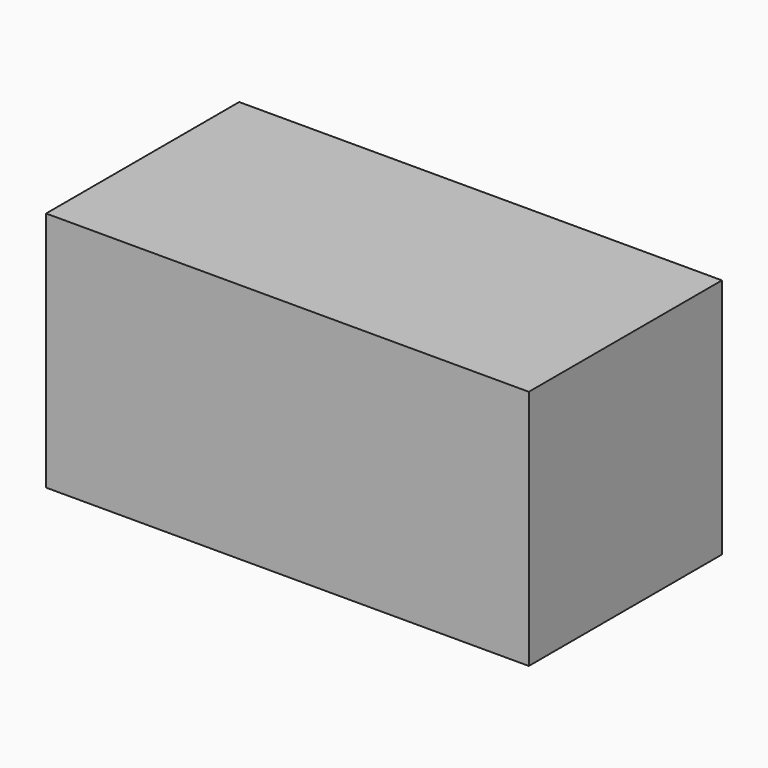
from build123d import *

# Parameters (mm, degrees)
SKETCH_W      = 100
SKETCH_H      = 50
EXTRUDE_DEPTH = 50


with BuildPart() as part:
    # Sketch → Extrude (new body)
    with BuildSketch(Plane.XY):
        Rectangle(SKETCH_W, SKETCH_H)
    extrude(amount=EXTRUDE_DEPTH)


solid = part.part
